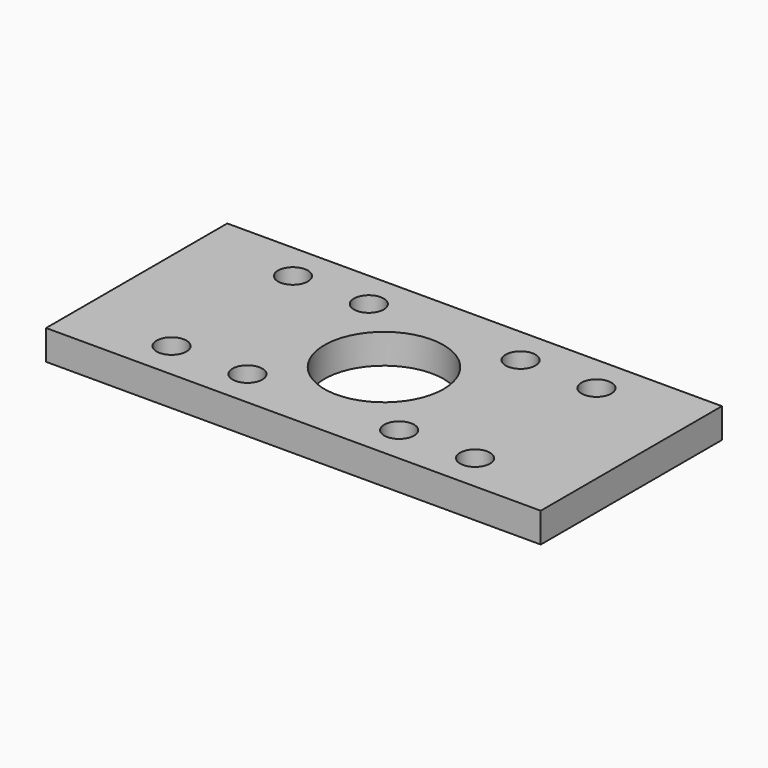
from build123d import *

# Parameters (mm, degrees)
F0_W     = 83
F0_H     = 38
F0_R     = 2.5
F0_R_2   = 10
F1_DEPTH = 5


with BuildPart() as f1:
    # F0 (on Top) → F1 (new body)
    with BuildSketch(Plane.XY):
        Rectangle(F0_W, F0_H)
        with Locations((-25.46, -12.73)):
            Circle(F0_R, mode=Mode.SUBTRACT)
        with Locations((-12.73, -12.73)):
            Circle(F0_R, mode=Mode.SUBTRACT)
        with Locations((12.73, -12.73)):
            Circle(F0_R, mode=Mode.SUBTRACT)
        with Locations((25.46, -12.73)):
            Circle(F0_R, mode=Mode.SUBTRACT)
        with Locations((-25.46, 12.73)):
            Circle(F0_R, mode=Mode.SUBTRACT)
        with Locations((-12.73, 12.73)):
            Circle(F0_R, mode=Mode.SUBTRACT)
        Circle(F0_R_2, mode=Mode.SUBTRACT)
        with Locations((12.73, 12.73)):
            Circle(F0_R, mode=Mode.SUBTRACT)
        with Locations((25.46, 12.73)):
            Circle(F0_R, mode=Mode.SUBTRACT)
    extrude(amount=F1_DEPTH)


solid = f1.part
